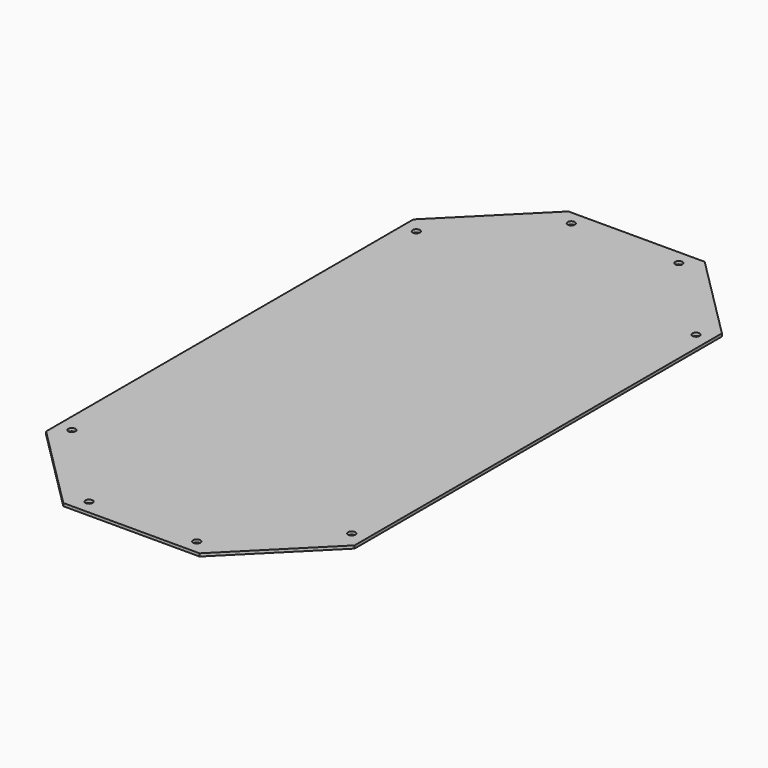
from build123d import *

# Parameters (mm, degrees)
SKETCH_R  = 2.5
PAD_DEPTH = 2


with BuildPart() as part:
    # Sketch → Pad (new body)
    with BuildSketch(Plane.XY):
        Polygon((-45.45861, 215.82047), (49.54139, 215.82047), (109.54139, 155.82047), (109.54139, -164.17953), (49.54139, -224.17953), (-45.45861, -224.17953), (-105.45861, -164.17953), (-105.45861, 155.82047), align=None)
        with Locations((-95.45861, 145.82047)):
            Circle(SKETCH_R, mode=Mode.SUBTRACT)
        with Locations((-35.45861, 205.82047)):
            Circle(SKETCH_R, mode=Mode.SUBTRACT)
        with Locations((39.54139, 205.82047)):
            Circle(SKETCH_R, mode=Mode.SUBTRACT)
        with Locations((99.54139, 145.82047)):
            Circle(SKETCH_R, mode=Mode.SUBTRACT)
        with Locations((-95.45861, -154.17953)):
            Circle(SKETCH_R, mode=Mode.SUBTRACT)
        with Locations((-35.45861, -214.17953)):
            Circle(SKETCH_R, mode=Mode.SUBTRACT)
        with Locations((39.54139, -214.17953)):
            Circle(SKETCH_R, mode=Mode.SUBTRACT)
        with Locations((99.54139, -154.17953)):
            Circle(SKETCH_R, mode=Mode.SUBTRACT)
    extrude(amount=PAD_DEPTH)


solid = part.part
